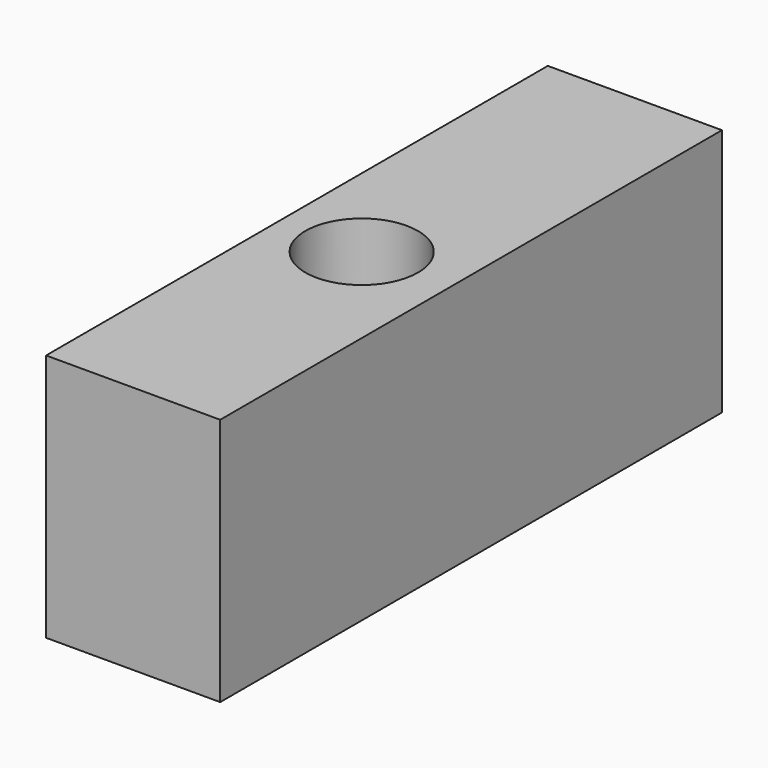
from build123d import *

# Parameters (mm, degrees)
F0_W     = 115.2750700712
F0_H     = 45.6929150969
F1_DEPTH = 32.004
F2_R     = 10.3573843819
F3_DEPTH = 45.6929150969


with BuildPart() as f1:
    # F0 (on Right) → F1 (new body)
    with BuildSketch(Plane.YZ):
        with Locations((4.1711367667, 16.4001537487)):
            Rectangle(F0_W, F0_H)
    extrude(amount=F1_DEPTH)

    # F2 (on face) → F3 (cut, through all)
    with BuildSketch(Plane.XY.offset(39.2466112971)):
        with Locations((15.2376582846, 0)):
            Circle(F2_R)
    extrude(amount=-F3_DEPTH, mode=Mode.SUBTRACT)


solid = f1.part
